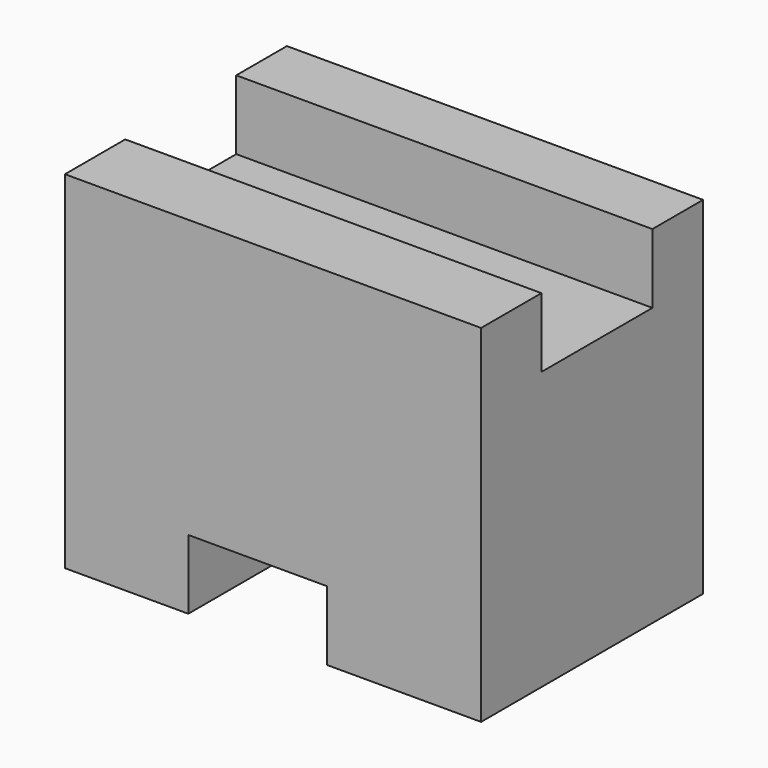
from build123d import *

# Parameters (mm, degrees)
F0_W     = 25.4
F0_H     = 31.75
F1_DEPTH = 38.1
F2_W     = 12.7
F2_H     = 6.35
F3_DEPTH = 38.1
F4_W     = 12.7
F4_H     = 6.35
F5_DEPTH = 25.4


with BuildPart() as f1:
    # F0 (on Right) → F1 (new body)
    with BuildSketch(Plane.YZ):
        with Locations((12.7, 15.875)):
            Rectangle(F0_W, F0_H)
    extrude(amount=F1_DEPTH)

    # F2 (on face) → F3 (cut)
    with BuildSketch(Plane.YZ.offset(38.1)):
        with Locations((13.252824, 28.575)):
            Rectangle(F2_W, F2_H)
    extrude(amount=-F3_DEPTH, mode=Mode.SUBTRACT)

    # F4 (on face) → F5 (cut)
    with BuildSketch(Plane.XZ):
        with Locations((17.64553, 3.175)):
            Rectangle(F4_W, F4_H)
    extrude(amount=-F5_DEPTH, mode=Mode.SUBTRACT)


solid = f1.part
